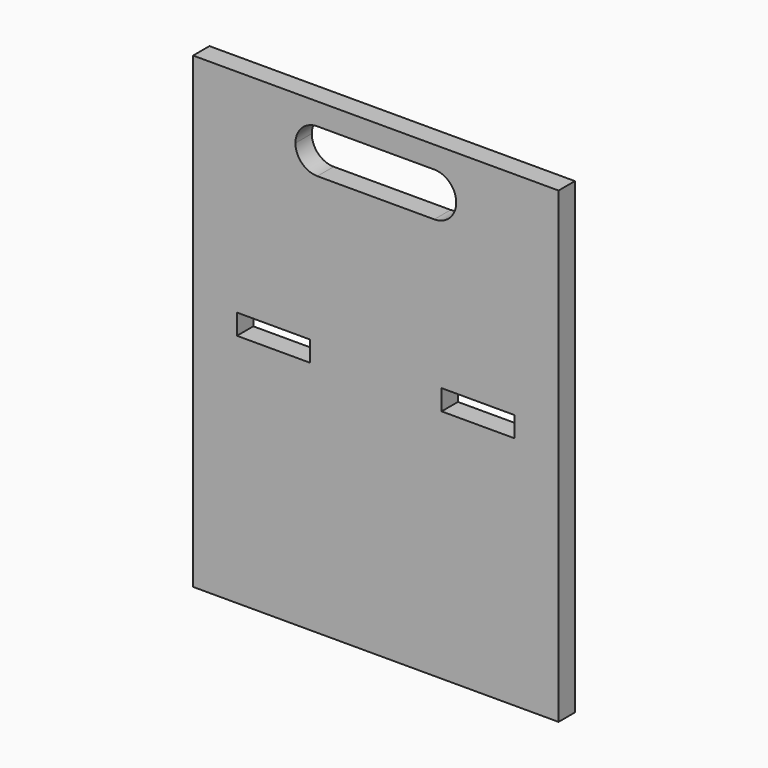
from build123d import *

# Parameters (mm, degrees)
F0_W     = 50
F0_H     = 14
F1_DEPTH = 14


with BuildPart() as f1:
    # F0 (on Front) → F1 (new body)
    with BuildSketch(Plane.XZ):
        Polygon((-125, 145), (-125, 0), (-125, -175), (125, -175), (125, 0), (125, 145), align=None)
        with Locations((-70, -7)):
            Rectangle(F0_W, F0_H, mode=Mode.SUBTRACT)
        with Locations((70, -7)):
            Rectangle(F0_W, F0_H, mode=Mode.SUBTRACT)
        with BuildLine():
            ThreePointArc((-55, 115), (-50.606602, 125.606602), (-40, 130))
            Line((-40, 130), (40, 130))
            ThreePointArc((40, 130), (50.606602, 125.606602), (55, 115))
            ThreePointArc((55, 115), (50.606602, 104.393398), (40, 100))
            Line((40, 100), (-40, 100))
            ThreePointArc((-40, 100), (-50.606602, 104.393398), (-55, 115))
        make_face(mode=Mode.SUBTRACT)
    extrude(amount=F1_DEPTH)


solid = f1.part
